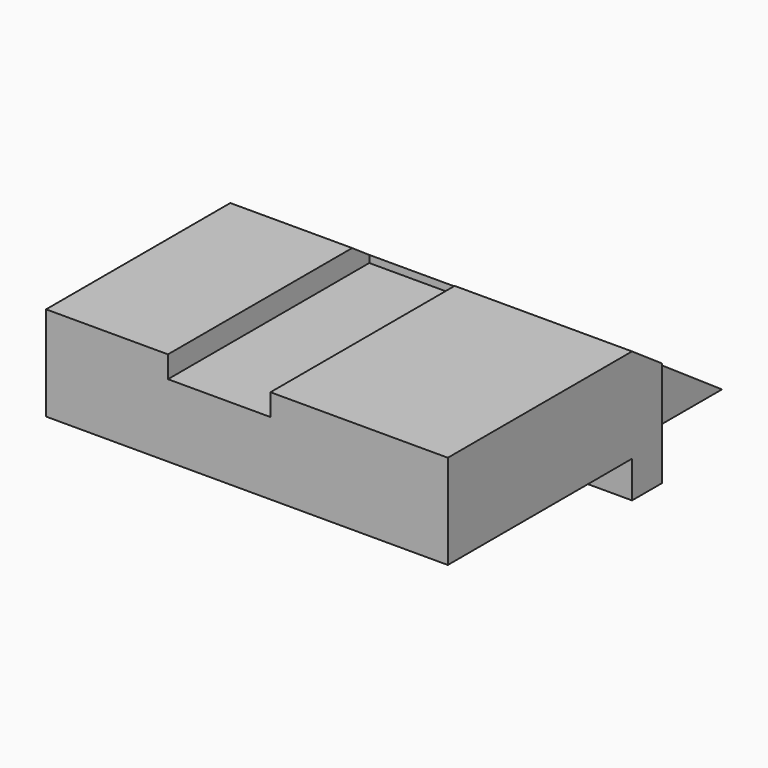
from build123d import *

# Parameters (mm, degrees)
F0_W      = 130.6576728821
F0_H      = 136.8280164897
F1_DEPTH  = 42.672
F3_DEPTH  = 168.402
F4_W      = 33.3350868896
F4_H      = 81.8327208981
F5_DEPTH  = 7.112
F7_DEPTH  = 20.32
F8_W      = 74.8863741755
F8_H      = 14.6345880348
F9_DEPTH  = 153.162
F10_R     = 8.7751073359
F10_R_2   = 8.9268024196
F10_R_3   = 9.0872621363
F10_R_4   = 9.8396569886
F11_DEPTH = 7.366


with BuildPart() as f1:
    # F0 (on Top) → F1 (new body)
    with BuildSketch(Plane.XY):
        with Locations((2.9565617442, -6.4723659307)):
            Rectangle(F0_W, F0_H)
    extrude(amount=F1_DEPTH)

    # F2 (on face) → F3 (cut)
    with BuildSketch(Plane.YZ.offset(68.2853981853)):
        Polygon((81.023953855, 51.4655448496), (0, 42.672), (83.4134221077, -14.7754913196), align=None)
    extrude(amount=-F3_DEPTH, mode=Mode.SUBTRACT)

    # F4 (on face) → F5 (cut)
    with BuildSketch(Plane.XY.offset(42.672)):
        with Locations((-6.0645765625, -33.9700137265)):
            Rectangle(F4_W, F4_H)
    extrude(amount=-F5_DEPTH, mode=Mode.SUBTRACT)

    # F6 (on face) → F7 (cut)
    with BuildSketch(Plane.YZ.offset(68.2853981853)):
        Polygon((71.3876187801, 35.8445122838), (12.2187227448, 34.2568678656), (12.2187227448, -9.6190823242), (71.3876187801, -9.6190823242), align=None)
    extrude(amount=-F7_DEPTH, mode=Mode.SUBTRACT)

    # F8 (on face) → F9 (cut)
    with BuildSketch(Plane.YZ.offset(68.2853981853)):
        with Locations((-37.4431870878, 4.6425884357)):
            Rectangle(F8_W, F8_H)
    extrude(amount=-F9_DEPTH, mode=Mode.SUBTRACT)

    # F10 (on face) → F11 (cut)
    with BuildSketch(Plane(origin=(0, 19.933646388, 28.943538214), x_dir=(1, 0, 0), z_dir=(0, 0.5672042031, 0.8235771925))):
        with Locations((20.9246538579, 5.7601314038)):
            Circle(F10_R)
        with Locations((-30.0480592996, 5.6009339169)):
            Circle(F10_R_2)
        with Locations((20.8549834788, 39.1954258084)):
            Circle(F10_R_3)
        with Locations((-30.4525401443, 38.9948263764)):
            Circle(F10_R_4)
    extrude(amount=-F11_DEPTH, mode=Mode.SUBTRACT)


solid = f1.part
